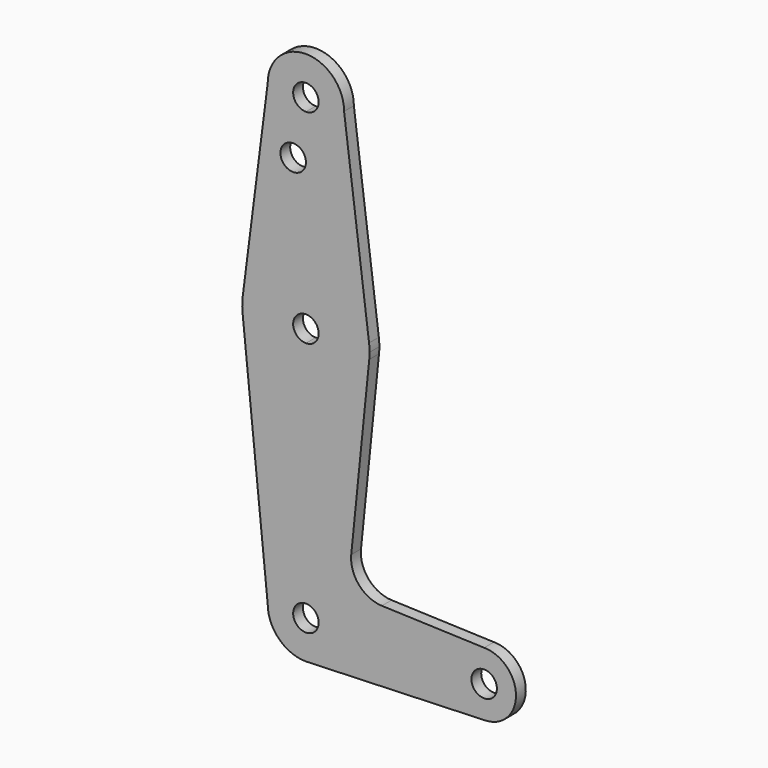
from build123d import *

# Parameters (mm, degrees)
F0_R     = 3.175
F1_DEPTH = 3.048


with BuildPart() as f1:
    # F0 (on Front) → F1 (new body)
    with BuildSketch(Plane.XZ):
        with BuildLine():
            ThreePointArc((3.175, 0), (-2.2450640303, -2.2450640303), (0, 3.175))
            Line((0, 3.175), (0, 9.525))
            ThreePointArc((0, 9.525), (-6.7351920908, 6.7351920908), (-9.525, 0))
            ThreePointArc((-9.525, 0), (-6.7351920908, -6.7351920908), (0, -9.525))
            Line((0, -9.525), (0.6773435479, -9.500885786))
            ThreePointArc((0.6773435479, -9.500885786), (6.9705567315, -6.4912990883), (9.525, 0))
            Line((9.525, 0), (3.175, 0))
        make_face()
        with BuildLine():
            ThreePointArc((-9.525, 0), (-6.7351920908, 6.7351920908), (0, 9.525))
            Line((0, 9.525), (0, 47.625))
            ThreePointArc((0, 47.625), (-10.644756084, 51.722700101), (-15.7942028036, 61.9003804205))
            Line((-15.7942028036, 61.9003804205), (-9.525, 0))
        make_face()
        with BuildLine():
            Line((0, 47.625), (0, 9.525))
            ThreePointArc((0, 9.525), (6.7351920908, 6.7351920908), (9.525, 0))
            Line((9.525, 0), (36.5125, 0))
            ThreePointArc((36.5125, 0), (38.8373399243, 5.6126600757), (44.45, 7.9375))
            Line((44.45, 7.9375), (18.9322510366, 8.8523612883))
            ThreePointArc((18.9322510366, 8.8523612883), (13.2244578226, 11.5730964697), (11.3073615093, 17.5985462477))
            Line((11.3073615093, 17.5985462477), (15.7942028036, 61.9003804205))
            ThreePointArc((15.7942028036, 61.9003804205), (10.644756084, 51.722700101), (0, 47.625))
        make_face()
        with BuildLine():
            Line((36.5125, 0), (9.525, 0))
            ThreePointArc((9.525, 0), (6.9705567315, -6.4912990883), (0.6773435479, -9.500885786))
            Line((0.6773435479, -9.500885786), (44.7324052746, -7.9324746146))
            ThreePointArc((44.7324052746, -7.9324746146), (38.9380895153, -5.7116327839), (36.5125, 0))
        make_face()
        with BuildLine():
            ThreePointArc((-15.7942028036, 61.9003804205), (-10.644756084, 51.722700101), (0, 47.625))
            Line((0, 47.625), (0, 60.325))
            ThreePointArc((0, 60.325), (-3.175, 63.5), (0, 66.675))
            Line((0, 66.675), (0, 79.375))
            ThreePointArc((0, 79.375), (-10.4912828548, 75.4142187767), (-15.7474569047, 65.5082893304))
            ThreePointArc((-15.7474569047, 65.5082893304), (-15.873667691, 63.7056672947), (-15.7942028036, 61.9003804205))
        make_face()
        with BuildLine():
            Line((0, 60.325), (0, 47.625))
            ThreePointArc((0, 47.625), (10.644756084, 51.722700101), (15.7942028036, 61.9003804205))
            ThreePointArc((15.7942028036, 61.9003804205), (15.8547878338, 62.6991705884), (15.875, 63.5))
            ThreePointArc((15.875, 63.5), (15.8430821396, 64.5061676396), (15.7474569047, 65.5082893304))
            ThreePointArc((15.7474569047, 65.5082893304), (10.4912828548, 75.4142187767), (0, 79.375))
            Line((0, 79.375), (0, 66.675))
            ThreePointArc((0, 66.675), (2.2450640303, 65.7450640303), (3.175, 63.5))
            ThreePointArc((3.175, 63.5), (2.2450640303, 61.2549359697), (0, 60.325))
        make_face()
        with BuildLine():
            ThreePointArc((44.45, 7.9375), (38.8373399243, 5.6126600757), (36.5125, 0))
            ThreePointArc((36.5125, 0), (38.9380895153, -5.7116327839), (44.7324052746, -7.9324746146))
            ThreePointArc((44.7324052746, -7.9324746146), (50.1616327839, -5.5119104847), (52.3875, 0))
            ThreePointArc((52.3875, 0), (50.0626600757, 5.6126600757), (44.45, 7.9375))
        make_face()
        with BuildLine():
            ThreePointArc((47.625, 0), (44.45, -3.175), (41.275, 0))
            ThreePointArc((41.275, 0), (44.45, 3.175), (47.625, 0))
        make_face(mode=Mode.SUBTRACT)
        with BuildLine():
            ThreePointArc((0, -9.525), (0.3388863295, -9.5189695375), (0.6773435479, -9.500885786))
            Line((0.6773435479, -9.500885786), (0, -9.525))
        make_face()
        with BuildLine():
            Line((-9.525, 114.3), (-15.7474569047, 65.5082893304))
            ThreePointArc((-15.7474569047, 65.5082893304), (-10.4912828548, 75.4142187767), (0, 79.375))
            Line((0, 79.375), (0, 100.0252))
            Line((0, 100.0252), (0, 104.775))
            ThreePointArc((0, 104.775), (-6.7351920908, 107.5648079092), (-9.525, 114.3))
        make_face()
        with Locations((-3.175, 100.0252)):
            Circle(F0_R, mode=Mode.SUBTRACT)
        with BuildLine():
            Line((0, 100.0252), (0, 79.375))
            ThreePointArc((0, 79.375), (10.4912828548, 75.4142187767), (15.7474569047, 65.5082893304))
            Line((15.7474569047, 65.5082893304), (9.525, 114.3))
            ThreePointArc((9.525, 114.3), (6.7351920908, 107.5648079092), (0, 104.775))
            Line((0, 104.775), (0, 100.0252))
        make_face()
        with BuildLine():
            ThreePointArc((9.525, 114.3), (0, 123.825), (-9.525, 114.3))
            ThreePointArc((-9.525, 114.3), (-6.7351920908, 107.5648079092), (0, 104.775))
            ThreePointArc((0, 104.775), (6.7351920908, 107.5648079092), (9.525, 114.3))
        make_face()
        with BuildLine():
            ThreePointArc((3.175, 114.3), (2.2450640303, 112.0549359697), (0, 111.125))
            ThreePointArc((0, 111.125), (-2.2450640303, 116.5450640303), (3.175, 114.3))
        make_face(mode=Mode.SUBTRACT)
        with BuildLine():
            Line((0, 9.525), (0, 3.175))
            ThreePointArc((0, 3.175), (2.2450640303, 2.2450640303), (3.175, 0))
            Line((3.175, 0), (9.525, 0))
            ThreePointArc((9.525, 0), (6.7351920908, 6.7351920908), (0, 9.525))
        make_face()
    extrude(amount=F1_DEPTH)


solid = f1.part
